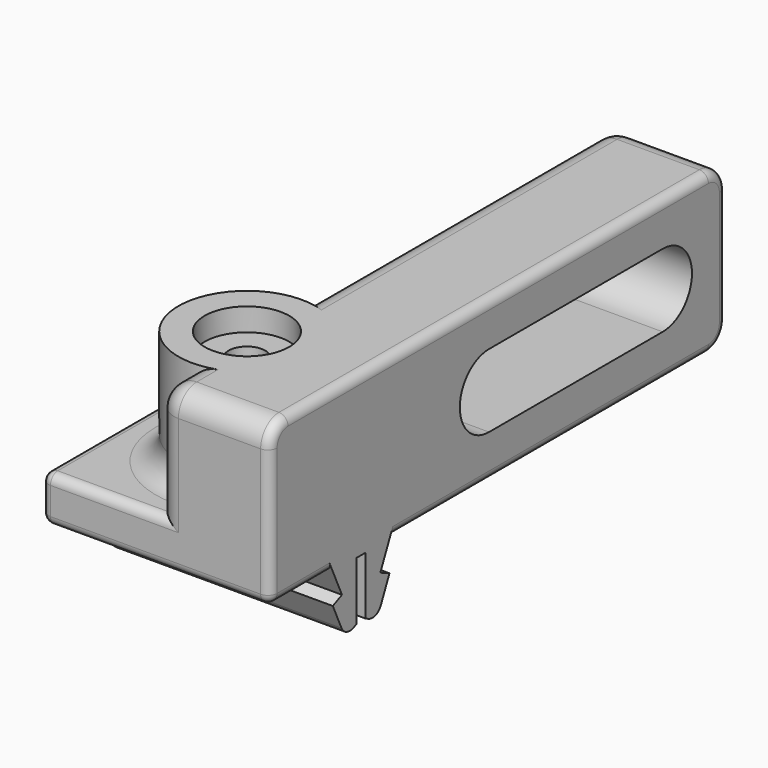
from build123d import *

# Parameters (mm, degrees)
PAD_DEPTH           = 5
SKETCH002_W         = 0.5
SKETCH002_H         = 2.8
POCKET_DEPTH        = 10.001
FILLET_R            = 0.5
SKETCH024_R         = 3
PAD016_DEPTH        = 5
FILLET004_R         = 1
SKETCH025_W         = 7
SKETCH025_H         = 5
PAD017_DEPTH        = 25
HOLE004_D           = 1.6
HOLE004_DEPTH       = 8
HOLE004_CBORE_D     = 3.7
HOLE004_CBORE_DEPTH = 1
HOLE004_TIPS_R      = 0.8
FILLET005_R         = 1
FILLET006_R         = 0.4
POCKET010_DEPTH     = 5.001
FILLET009_R         = 0.5


with BuildPart() as part:
    # Sketch → Pad (new body, symmetric)
    with BuildSketch(Plane.YZ):
        Polygon((-5, 7.5), (-5, 9.5), (5, 9.5), (5, 7.5), (1.55, 7.5), (1.05, 6.4), (1.55, 6.172727), (0.868182, 4.672727), (0, 5.067355), (-0.868182, 4.672727), (-1.55, 6.172727), (-1.05, 6.4), (-1.55, 7.5), align=None)
    extrude(amount=PAD_DEPTH, both=True)

    # Sketch002 → Pocket (cut, through all)
    with BuildSketch(Plane.YZ.offset(5)):
        with Locations((0, 6.1)):
            Rectangle(SKETCH002_W, SKETCH002_H)
    extrude(amount=-POCKET_DEPTH, mode=Mode.SUBTRACT)

    # Fillet
    fillet_edges = [part.edges().sort_by_distance(p)[0] for p in [
        (0, 0.868182, 4.672727),
        (0, -0.868182, 4.672727),
    ]]
    fillet(fillet_edges, radius=FILLET_R)

    # Sketch024 (on Face2 of Pad) → Pad016 (join)
    with BuildSketch(Plane(origin=(0, 0, 9.5), x_dir=(0, -1, 0), z_dir=(0, 0, 1))):
        Circle(SKETCH024_R)
    extrude(amount=PAD016_DEPTH)

    # Fillet004
    fillet004_edges = [part.edges().sort_by_distance(p)[0] for p in [
        (0, 3, 9.5),
    ]]
    fillet(fillet004_edges, radius=FILLET004_R)

    # Sketch025 (on DatumPlane) → Pad017 (join)
    with BuildSketch(Plane(origin=(0, -5, 0), x_dir=(0, 0, -1), z_dir=(0, -1, 0))):
        with Locations((-11, 2.5)):
            Rectangle(SKETCH025_W, SKETCH025_H)
    extrude(amount=-PAD017_DEPTH)

    # Hole004
    with Locations(Plane(origin=(0, 0, 14.5), x_dir=(0, -1, 0), z_dir=(0, 0, 1))):
        with Locations((0, 0)):
            CounterBoreHole(HOLE004_D / 2, HOLE004_CBORE_D / 2, HOLE004_CBORE_DEPTH, depth=HOLE004_DEPTH)

    # Hole004 tips → Hole004 tip 1 section 0
    with BuildSketch(Plane(origin=(0, 0, 6.5), x_dir=(0, -1, 0), z_dir=(0, 0, 1)), mode=Mode.PRIVATE) as hole004_tip_1_s0:
        Circle(HOLE004_TIPS_R)
    loft([hole004_tip_1_s0.sketch, Vertex(0, 0, 6.019312)], mode=Mode.SUBTRACT)

    # Fillet005
    fillet005_edges = [part.edges().sort_by_distance(p)[0] for p in [
        (0, -5, 12),
        (0, -4, 14.5),
        (0, 11.5, 14.5),
        (0, 20, 11),
        (2.5, 20, 7.5),
        (0, 12.5, 7.5),
        (2.5, -5, 14.5),
        (2.5, 20, 14.5),
    ]]
    fillet(fillet005_edges, radius=FILLET005_R)

    # Fillet006
    fillet006_edges = [part.edges().sort_by_distance(p)[0] for p in [
        (-2.5, -5, 9.5),
        (-5, 0, 9.5),
        (-2.5, 5, 9.5),
        (0.5, -5, 9.5),
        (-5, 5, 8.5),
        (-5, -5, 8.5),
        (5, 7.5, 14.5),
        (5, 19.707107, 14.207107),
        (5, 20, 11),
        (5, 19.707107, 7.792893),
        (5, 10.275, 7.5),
        (5, -5, 10.5),
        (5, -4.707107, 14.207107),
        (5, -3.275, 7.5),
        (-2.5, 5, 7.5),
        (0.5, 5, 7.5),
        (-5, 3.275, 7.5),
        (-5, -3.275, 7.5),
        (0, -5, 7.5),
    ]]
    fillet(fillet006_edges, radius=FILLET006_R)

    # Sketch027 (on DatumPlane) → Pocket010 (cut, through all)
    with BuildSketch(Plane(origin=(0, 0, 0), x_dir=(0, 1, 0), z_dir=(-1, 0, 0))):
        with BuildLine():
            Line((7, -9.4), (16.5, -9.4))
            ThreePointArc((16.5, -12.6), (18.1, -11), (16.5, -9.4))
            Line((16.5, -12.6), (7, -12.6))
            ThreePointArc((7, -9.4), (5.4, -11), (7, -12.6))
        make_face()
    extrude(amount=-POCKET010_DEPTH, mode=Mode.SUBTRACT)

    # Fillet009
    fillet009_edges = [part.edges().sort_by_distance(p)[0] for p in [
        (0, 11.75, 12.6),
        (0, 18.1, 11),
        (0, 11.75, 9.4),
        (0, 5.4, 11),
    ]]
    fillet(fillet009_edges, radius=FILLET009_R)


with BuildPart() as part_1:
    # Body001 placement: moved
    add(part.part.moved(Location((-37.45, 0, 0))))


solid = part_1.part
